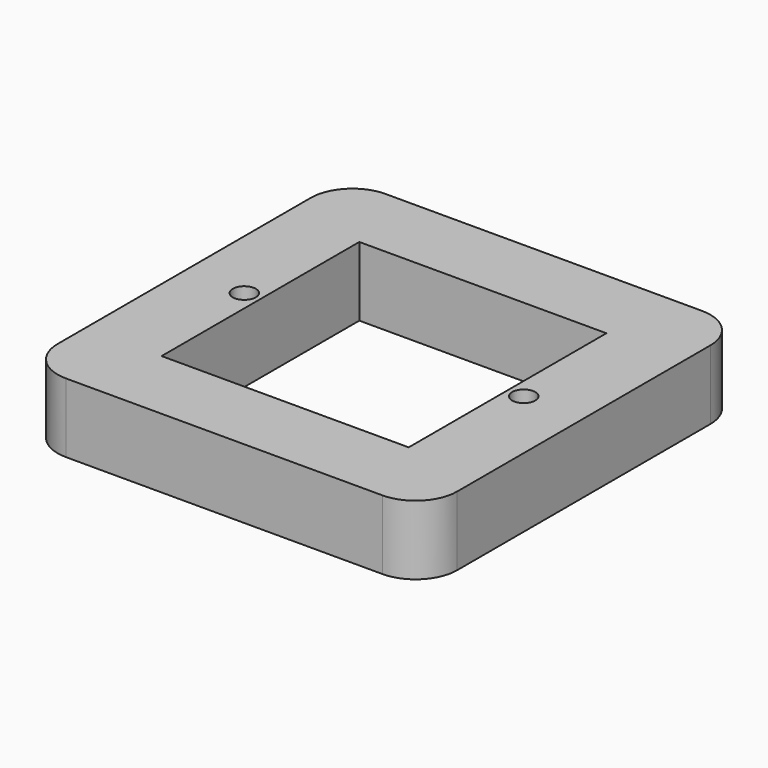
from build123d import *

# Parameters (mm, degrees)
F0_R     = 2.5
F0_W     = 53.5
F0_H     = 53.5
F1_DEPTH = 15


with BuildPart() as f1:
    # F0 (on Top) → F1 (new body)
    with BuildSketch(Plane.XY):
        with BuildLine():
            Line((-34.25, -43.25), (34.25, -43.25))
            ThreePointArc((34.25, -43.25), (40.613961, -40.613961), (43.25, -34.25))
            Line((43.25, -34.25), (43.25, 34.25))
            ThreePointArc((43.25, 34.25), (40.613961, 40.613961), (34.25, 43.25))
            Line((34.25, 43.25), (-34.25, 43.25))
            ThreePointArc((-34.25, 43.25), (-40.613961, 40.613961), (-43.25, 34.25))
            Line((-43.25, 34.25), (-43.25, -34.25))
            ThreePointArc((-43.25, -34.25), (-40.613961, -40.613961), (-34.25, -43.25))
        make_face()
        with Locations((-30.25, 0)):
            Circle(F0_R, mode=Mode.SUBTRACT)
        Rectangle(F0_W, F0_H, mode=Mode.SUBTRACT)
        with Locations((30.25, 0)):
            Circle(F0_R, mode=Mode.SUBTRACT)
    extrude(amount=F1_DEPTH)


solid = f1.part
